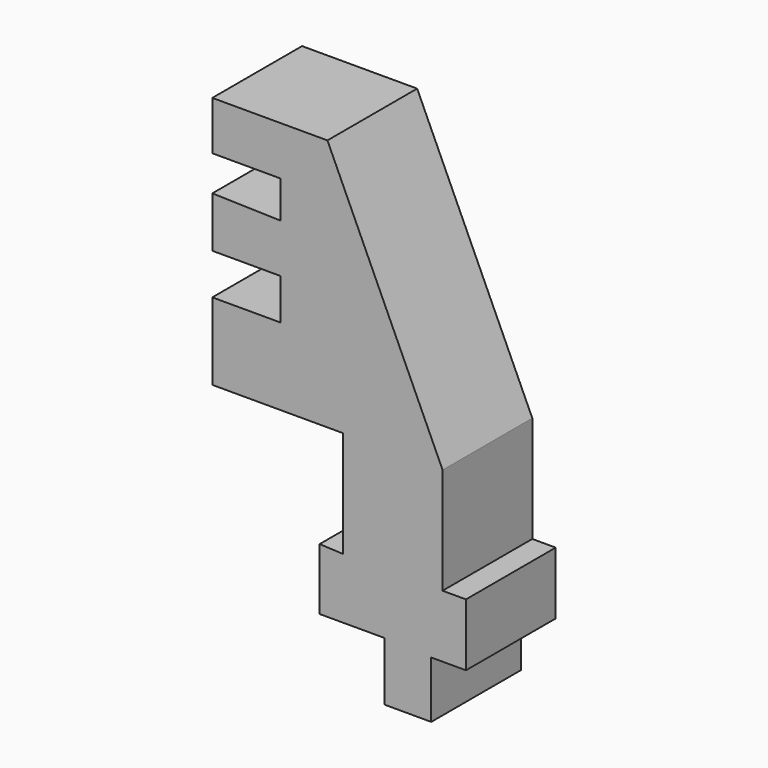
from build123d import *

# Parameters (mm, degrees)
F0_W     = 22.53611
F0_H     = 24.080748
F1_DEPTH = 12.7


with BuildPart() as f1:
    # F0 (on Front) → F1 (new body, symmetric)
    with BuildSketch(Plane.XZ):
        Polygon((10.604375, 57.219401), (-15.464697, 57.219401), (-15.464697, 46.173185), (0, 46.173185), (0, 37.766137), (-15.464697, 38.183439), (-15.464697, 26.731845), (0, 26.731845), (0, 17.453024), (-15.464769, 17.453024), (-15.464769, 0), (14.142007, 0), (36.678117, 0), align=None)
        with Locations((25.410062, -12.040374)):
            Rectangle(F0_W, F0_H)
        Polygon((41.974645, -24.080748), (36.678117, -24.080748), (14.142007, -24.080748), (8.844517, -23.828508), (8.844517, -37.778057), (23.565015, -37.778057), (23.565015, -51.06803), (34.112319, -51.06803), (34.112319, -38.219903), (41.974645, -38.219903), align=None)
    extrude(amount=F1_DEPTH, both=True)


solid = f1.part
